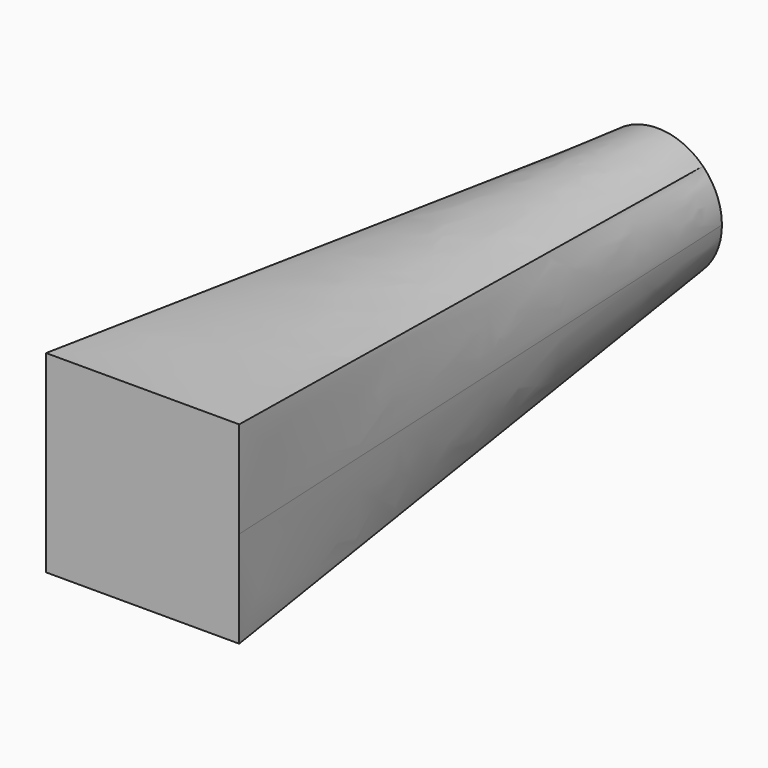
from build123d import *

# Parameters (mm, degrees)
F0_W = 76.2
F0_H = 76.2
F2_R = 25.4


with BuildPart() as f3:
    # F0 (on Front) → F3 section 0
    with BuildSketch(Plane.XZ):
        Rectangle(F0_W, F0_H)
    # F2 (on offset) → F3 section 1
    with BuildSketch(Plane.XZ.offset(-254)):
        Circle(F2_R)
    loft()


solid = f3.part
